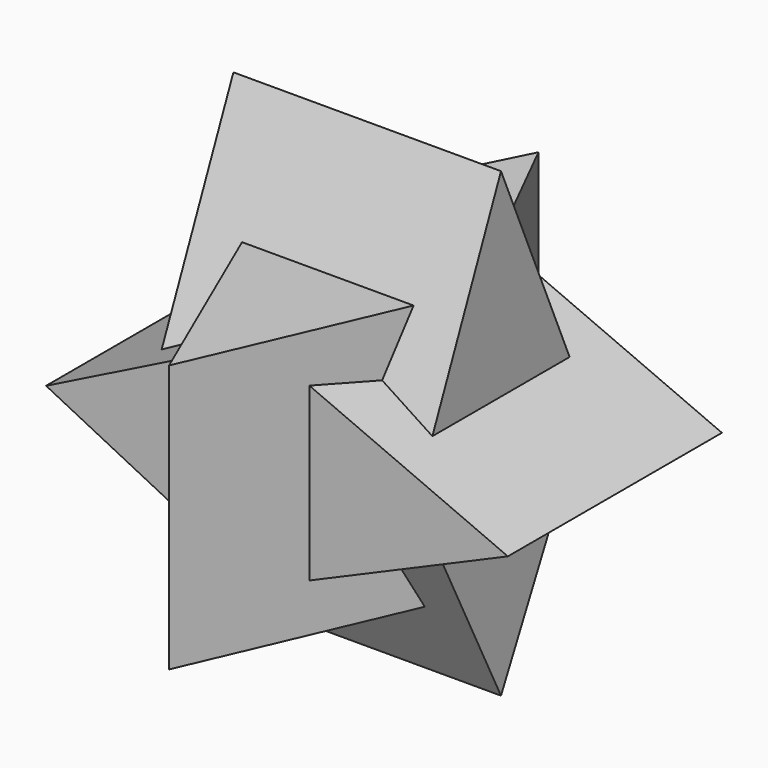
from build123d import *

# Parameters (mm, degrees)
F1_DEPTH      = 25
F1_DEPTH_BACK = 25
F5_ANGLE      = 90
F6_ANGLE      = 90
F7_ANGLE      = 90


with BuildPart() as f1:
    # F0 (on Front) → F1 (new body, two sides)
    with BuildSketch(Plane.XZ) as f1_sk:
        Polygon((0, -20), (46.28019, 0), (0, 20), (-40, 0), align=None)
    extrude(amount=F1_DEPTH)
    extrude(f1_sk.sketch, amount=-F1_DEPTH_BACK)


with BuildPart() as f5_1:
    # F5: copy of F1
    add(f1.part.rotate(Axis((0, 0, 24.889214), (0, 0, -1)), F5_ANGLE))


with BuildPart() as f6_1:
    # F6: copy of F5_1
    add(f5_1.part.rotate(Axis((0, 23.440637, 0), (0, -1, 0)), F6_ANGLE))


with BuildPart() as f5_1_1:
    # F7: moved
    add(f5_1.part.rotate(Axis((30.420149, 0, 0), (-1, 0, 0)), F7_ANGLE))


solid = Compound([f1.part, f6_1.part, f5_1_1.part])
